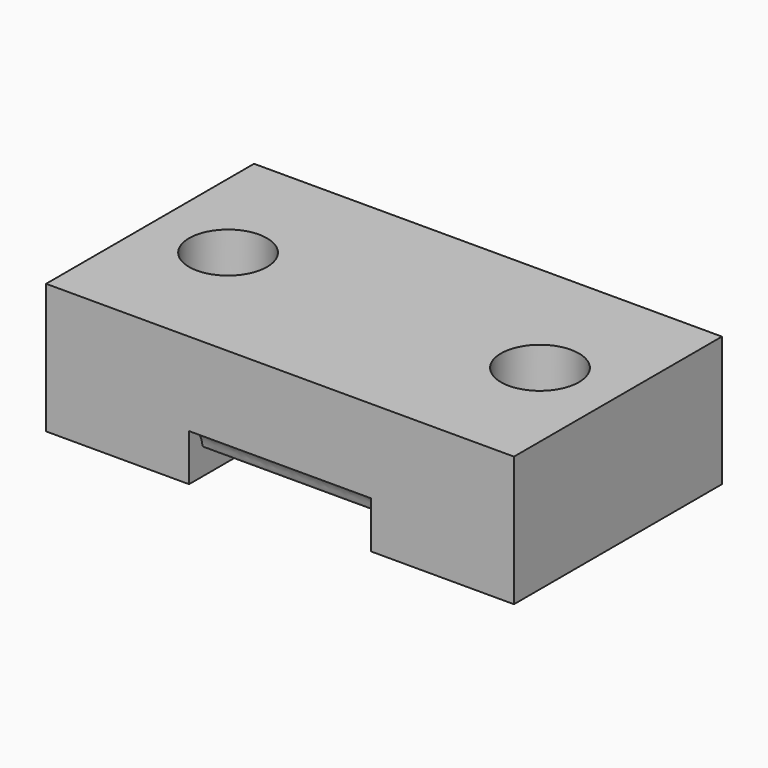
from build123d import *

# Parameters (mm, degrees)
SKETCH_W     = 18
SKETCH_H     = 10
SKETCH_R     = 1.5
PAD_DEPTH    = 5
SKETCH009_W  = 7
SKETCH009_H  = 10
POCKET_DEPTH = 1.8
PAD001_DEPTH = 7


with BuildPart() as part:
    # Sketch → Pad (new body)
    with BuildSketch(Plane.XY):
        with Locations((9, 5)):
            Rectangle(SKETCH_W, SKETCH_H)
        with Locations((3, 5)):
            Circle(SKETCH_R, mode=Mode.SUBTRACT)
        with Locations((15, 5)):
            Circle(SKETCH_R, mode=Mode.SUBTRACT)
    extrude(amount=PAD_DEPTH)

    # Sketch009 → Pocket (cut)
    with BuildSketch(Plane.XY):
        with Locations((9, 5)):
            Rectangle(SKETCH009_W, SKETCH009_H)
    extrude(amount=POCKET_DEPTH, mode=Mode.SUBTRACT)

    # Sketch008 (on DatumPlane) → Pad001 (join)
    with BuildSketch(Plane(origin=(5.5, 0, 1.8), x_dir=(0, 1, 0), z_dir=(1, 0, 0))):
        with BuildLine():
            add(Edge.make_bspline(
                [(0, 0), (0.35359, -0.026741), (0.649381, -0.565336), (0.617792, -0.761919), (0.721021, -0.848783), (0.871627, -0.848783), (1.086099, -0.848783), (1.231939, -0.850694), (1.339653, -0.771577), (1.309148, -0.564354), (1.603926, -0.032231), (2, 0)],
                knots=[0, 0, 0, 0, 0.142857, 0.285714, 0.428571, 0.428571, 0.571429, 0.571429, 0.714286, 0.857143, 1, 1, 1, 1], degree=3))
            add(Edge.make_bspline(
                [(2, 0), (2.35359, -0.026741), (2.649381, -0.565336), (2.617792, -0.761919), (2.721021, -0.848783), (2.871627, -0.848783), (3.086099, -0.848783), (3.231939, -0.850694), (3.339653, -0.771577), (3.309148, -0.564354), (3.603926, -0.032231), (4, 0)],
                knots=[0, 0, 0, 0, 0.142857, 0.285714, 0.428571, 0.428571, 0.571429, 0.571429, 0.714286, 0.857143, 1, 1, 1, 1], degree=3))
            add(Edge.make_bspline(
                [(4, 0), (4.35359, -0.026741), (4.649381, -0.565336), (4.617792, -0.761919), (4.721021, -0.848783), (4.871627, -0.848783), (5.086099, -0.848783), (5.231939, -0.850694), (5.339653, -0.771577), (5.309148, -0.564354), (5.603926, -0.032231), (6, 0)],
                knots=[0, 0, 0, 0, 0.142857, 0.285714, 0.428571, 0.428571, 0.571429, 0.571429, 0.714286, 0.857143, 1, 1, 1, 1], degree=3))
            add(Edge.make_bspline(
                [(6, 0), (6.35359, -0.026741), (6.649381, -0.565336), (6.617792, -0.761919), (6.721021, -0.848783), (6.871627, -0.848783), (7.086099, -0.848783), (7.231939, -0.850694), (7.339653, -0.771577), (7.309148, -0.564354), (7.603926, -0.032231), (8, 0)],
                knots=[0, 0, 0, 0, 0.142857, 0.285714, 0.428571, 0.428571, 0.571429, 0.571429, 0.714286, 0.857143, 1, 1, 1, 1], degree=3))
            add(Edge.make_bspline(
                [(8, 0), (8.35359, -0.026741), (8.649381, -0.565336), (8.617792, -0.761919), (8.721021, -0.848783), (8.871627, -0.848783), (9.086099, -0.848783), (9.231939, -0.850694), (9.339653, -0.771577), (9.309148, -0.564354), (9.603926, -0.032231), (10, 0)],
                knots=[0, 0, 0, 0, 0.142857, 0.285714, 0.428571, 0.428571, 0.571429, 0.571429, 0.714286, 0.857143, 1, 1, 1, 1], degree=3))
            Line((10, 0), (10, 0.958783))
            Line((10, 0.958783), (0, 0.958783))
            Line((0, 0.958783), (0, 0))
        make_face()
    extrude(amount=PAD001_DEPTH)


solid = part.part
